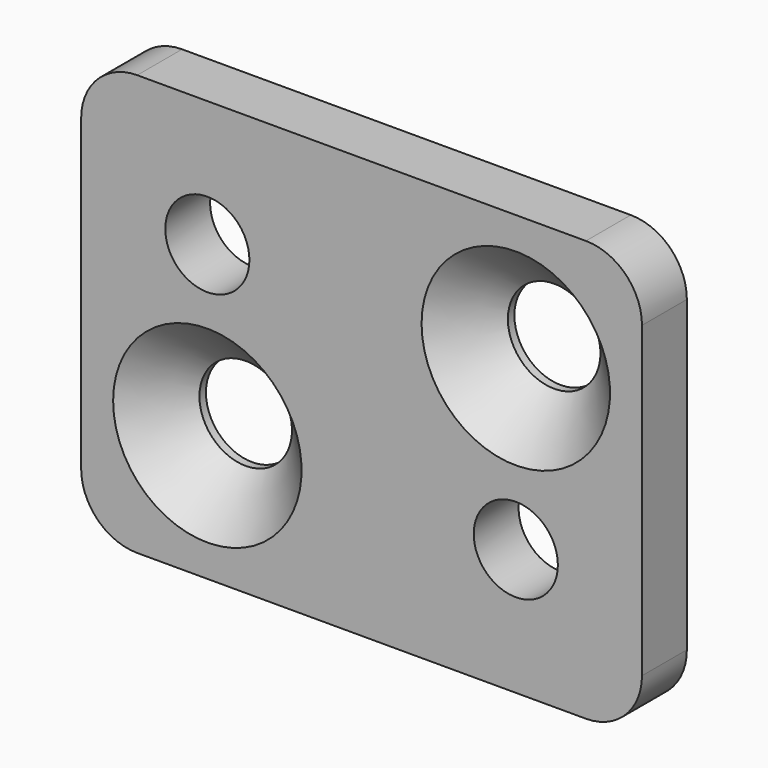
from build123d import *

# Parameters (mm, degrees)
F0_W           = 20
F0_H           = 15
F1_DEPTH       = 2
F3_D           = 3.3
F3_CSINK_D     = 6.72
F3_CSINK_ANGLE = 90
F4_R           = 1.5
F5_DEPTH       = 2.001
F6_R           = 2


with BuildPart() as f1:
    # F0 (on Front) → F1 (new body)
    with BuildSketch(Plane.XZ):
        with Locations((10, 7.5)):
            Rectangle(F0_W, F0_H)
    extrude(amount=-F1_DEPTH)

    # F3 (through all)
    with Locations(Plane.XZ):
        with Locations((15.5, 10.5), (4.5, 4.5)):
            CounterSinkHole(F3_D / 2, F3_CSINK_D / 2, counter_sink_angle=F3_CSINK_ANGLE)

    # F4 (on face) → F5 (cut, through all)
    with BuildSketch(Plane.XZ):
        with Locations((15.5, 4.5)):
            Circle(F4_R)
        with Locations((4.5, 10.5)):
            Circle(F4_R)
    extrude(amount=-F5_DEPTH, mode=Mode.SUBTRACT)

    # F6
    f6_edges = [f1.edges().sort_by_distance(p)[0] for p in [
        (20, 1, 15),
        (0, 1, 15),
        (20, 1, 0),
        (0, 1, 0),
    ]]
    fillet(f6_edges, radius=F6_R)


solid = f1.part
